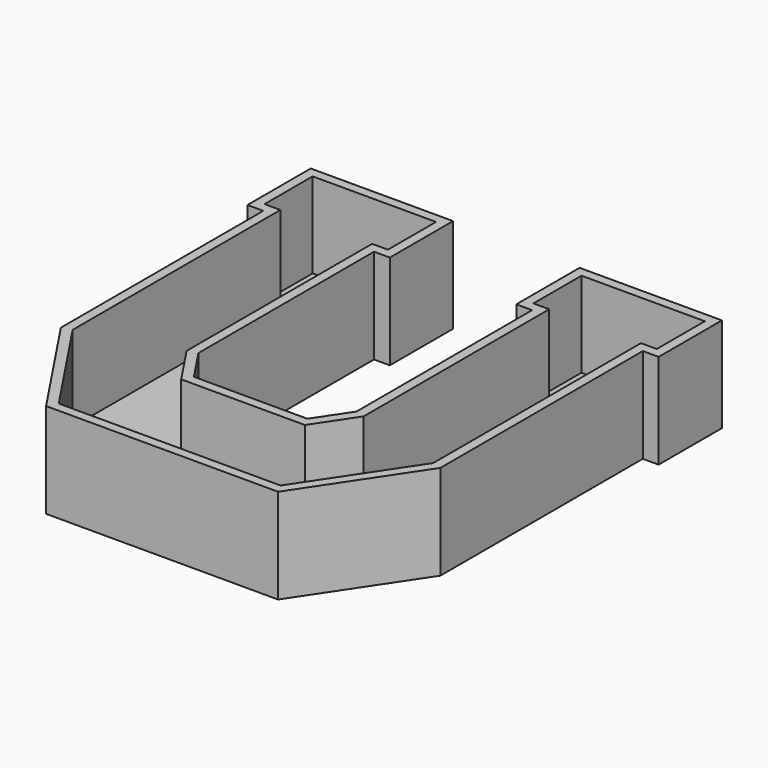
from build123d import *

# Parameters (mm, degrees)
F1_DEPTH = 30
F2_T     = -3


with BuildPart() as f1:
    # F0 (on Top) → F1 (new body)
    with BuildSketch(Plane.XY):
        Polygon((-20, 70), (-65, 70), (-65, 45), (-60, 45), (-60, -35), (-36.6666666667, -70), (0, -70), (36.6666666667, -70), (60, -35), (60, 45), (65, 45), (65, 70), (20, 70), (20, 45), (25, 45), (25, -24.4028526794), (17.9352351196, -35), (0, -35), (-17.9352351196, -35), (-25, -24.4028526794), (-25, 45), (-20, 45), align=None)
    extrude(amount=F1_DEPTH)

    # F2
    f2_openings = [f1.faces().sort_by_distance(p)[0] for p in [
        (23.057247, -30.76118, 30),
    ]]
    offset(amount=F2_T, openings=f2_openings, kind=Kind.INTERSECTION)


solid = f1.part
